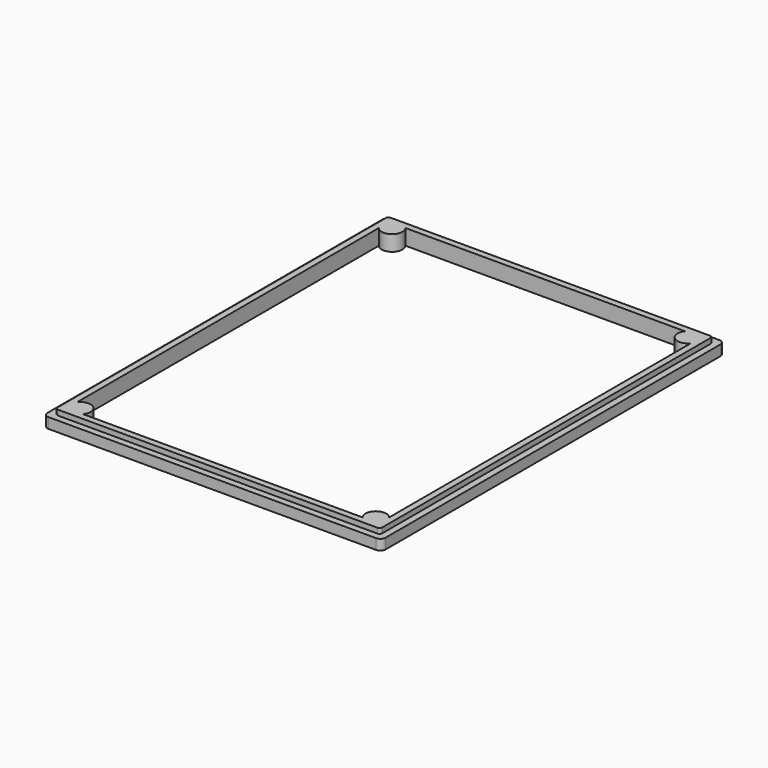
from build123d import *

# Parameters (mm, degrees)
SKETCH003_W     = 130
SKETCH003_H     = 165
PAD002_DEPTH    = 6
SKETCH004_W     = 120
SKETCH004_H     = 155
POCKET001_DEPTH = 10
SKETCH007_W     = 130
SKETCH007_H     = 165
SKETCH007_W_2   = 124.9
SKETCH007_H_2   = 159.9
POCKET002_DEPTH = 2
SKETCH008_R     = 4
PAD004_DEPTH    = 6
SKETCH009_R     = 3.1
POCKET003_DEPTH = 3.2
FILLET001_R     = 2
FILLET002_R     = 1
FILLET003_R     = 1
FILLET004_R     = 1
FILLET005_R     = 1


with BuildPart() as part:
    # Sketch003 → Pad002 (new body)
    with BuildSketch(Plane.XY):
        Rectangle(SKETCH003_W, SKETCH003_H)
    extrude(amount=PAD002_DEPTH)

    # Sketch004 (on Face6 of Pad002) → Pocket001 (cut)
    with BuildSketch(Plane.XY.offset(6)):
        Rectangle(SKETCH004_W, SKETCH004_H)
    extrude(amount=-POCKET001_DEPTH, mode=Mode.SUBTRACT)

    # Sketch007 (on Face5 of Pocket001) → Pocket002 (cut)
    with BuildSketch(Plane.XY.offset(6)):
        Rectangle(SKETCH007_W, SKETCH007_H)
        Rectangle(SKETCH007_W_2, SKETCH007_H_2, mode=Mode.SUBTRACT)
    extrude(amount=-POCKET002_DEPTH, mode=Mode.SUBTRACT)

    # Sketch008 (on Face2 of Pocket002) → Pad004 (join)
    with BuildSketch(Plane(origin=(0, 0, 0), x_dir=(1, 0, 0), z_dir=(0, 0, -1))):
        with Locations((-56.877501, 75)):
            Circle(SKETCH008_R)
        with Locations((56.877501, 75)):
            Circle(SKETCH008_R)
        with Locations((-56.877501, -75)):
            Circle(SKETCH008_R)
        with Locations((56.877501, -75)):
            Circle(SKETCH008_R)
    extrude(amount=-PAD004_DEPTH)

    # Sketch009 (on Face10 of Pad004) → Pocket003 (cut)
    with BuildSketch(Plane(origin=(0, 0, 0), x_dir=(1, 0, 0), z_dir=(0, 0, -1))):
        with Locations((-56.877501, 75)):
            Circle(SKETCH009_R)
        with Locations((56.877501, 75)):
            Circle(SKETCH009_R)
        with Locations((-56.877501, -75)):
            Circle(SKETCH009_R)
        with Locations((56.877501, -75)):
            Circle(SKETCH009_R)
    extrude(amount=-POCKET003_DEPTH, mode=Mode.SUBTRACT)

    # Fillet001
    fillet001_edges = [part.edges().sort_by_distance(p)[0] for p in [
        (65, -82.5, 2),
        (-65, -82.5, 2),
        (-65, 82.5, 2),
        (65, 82.5, 2),
    ]]
    fillet(fillet001_edges, radius=FILLET001_R)

    # Fillet002
    fillet002_edges = [part.edges().sort_by_distance(p)[0] for p in [
        (62.45, -79.95, 5),
    ]]
    fillet(fillet002_edges, radius=FILLET002_R)

    # Fillet003
    fillet003_edges = [part.edges().sort_by_distance(p)[0] for p in [
        (-62.45, -79.95, 5),
    ]]
    fillet(fillet003_edges, radius=FILLET003_R)

    # Fillet004
    fillet004_edges = [part.edges().sort_by_distance(p)[0] for p in [
        (-62.45, 79.95, 5),
    ]]
    fillet(fillet004_edges, radius=FILLET004_R)

    # Fillet005
    fillet005_edges = [part.edges().sort_by_distance(p)[0] for p in [
        (62.45, 79.95, 5),
    ]]
    fillet(fillet005_edges, radius=FILLET005_R)


solid = part.part
